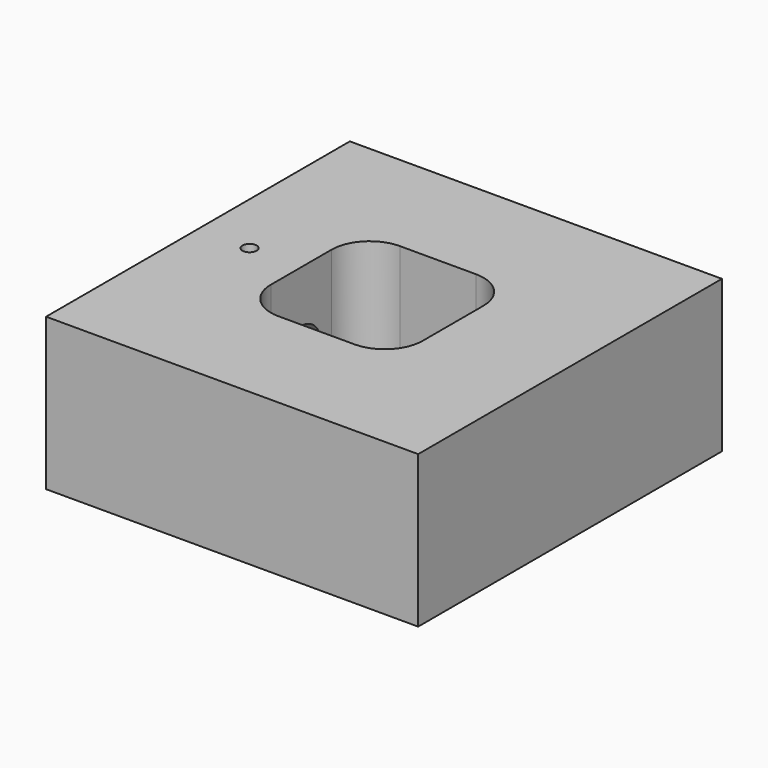
from build123d import *

# Parameters (mm, degrees)
F0_W     = 62.23
F0_H     = 63.5
F1_DEPTH = 25.4
F3_D     = 8.1026
F3_DEPTH = 20.32
F5_D     = 2.3876
F5_DEPTH = 12.7


with BuildPart() as f1:
    # F0 (on Top) → F1 (new body)
    with BuildSketch(Plane.XY):
        with Locations((1.843547, 12.7)):
            Rectangle(F0_W, F0_H)
        with BuildLine():
            ThreePointArc((-11.999453, 19.05), (-10.139581, 23.540128), (-5.649453, 25.4))
            Line((-5.649453, 25.4), (7.050547, 25.4))
            ThreePointArc((7.050547, 25.4), (11.540676, 23.540128), (13.400547, 19.05))
            Line((13.400547, 19.05), (13.400547, 6.35))
            ThreePointArc((13.400547, 6.35), (11.540676, 1.859872), (7.050547, 0))
            Line((7.050547, 0), (-5.649453, 0))
            ThreePointArc((-5.649453, 0), (-10.139581, 1.859872), (-11.999453, 6.35))
            Line((-11.999453, 6.35), (-11.999453, 19.05))
        make_face(mode=Mode.SUBTRACT)
    extrude(amount=F1_DEPTH)

    # F3
    with Locations(Plane(origin=(-29.271453, 0, 0), x_dir=(0, -1, 0), z_dir=(-1, 0, 0))):
        with Locations((-12.7, 12.7)):
            Hole(F3_D / 2, depth=F3_DEPTH)

    # F5
    with Locations(Plane.XY.offset(25.4)):
        with Locations((-20.635453, 12.7)):
            Hole(F5_D / 2, depth=F5_DEPTH)


solid = f1.part
